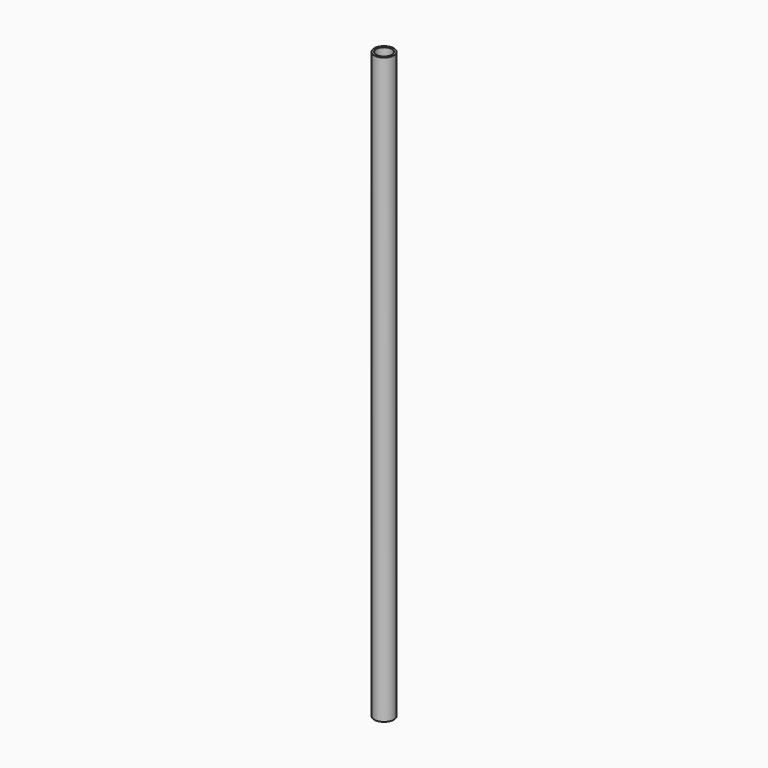
from build123d import *

# Parameters (mm, degrees)
INNERCYLINDER_R     = 13.3223
INNERCYLINDER_DEPTH = 1200
OUTERCYLINDER_R     = 16.7005
OUTERCYLINDER_DEPTH = 1000


with BuildPart() as innercylinder:
    # InnerCylinder → InnerCylinder (new body)
    with BuildSketch(Plane.XY.offset(-100)):
        Circle(INNERCYLINDER_R)
    extrude(amount=INNERCYLINDER_DEPTH)


with BuildPart() as pipe:
    # OuterCylinder → OuterCylinder (new body)
    with BuildSketch(Plane.XY):
        Circle(OUTERCYLINDER_R)
    extrude(amount=OUTERCYLINDER_DEPTH)

    # Pipe: cut InnerCylinder
    add(innercylinder.part, mode=Mode.SUBTRACT)


solid = pipe.part
